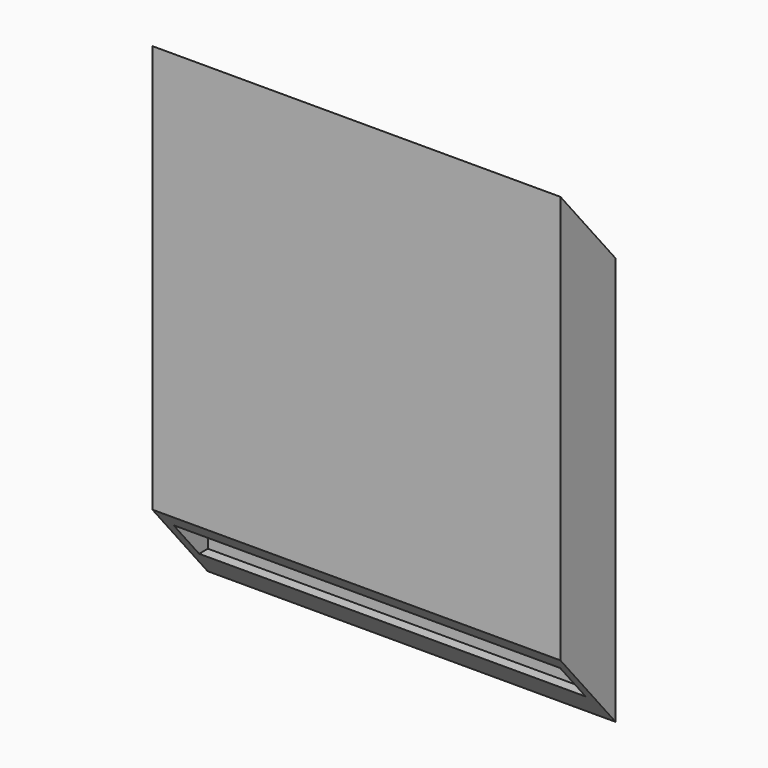
from build123d import *

# Parameters (mm, degrees)
F1_DEPTH = 24.13
F2_W     = 12.7
F2_H     = 1.27
F3_DEPTH = 45.72
F4_DEPTH = 54.61


with BuildPart() as f1:
    # F0 (on Right) → F1 (new body, symmetric)
    with BuildSketch(Plane.YZ):
        Polygon((-16.67125, -9.728764), (-24.834652, 0), (-24.834652, -48.26), (-16.67125, -57.988764), align=None)
    extrude(amount=F1_DEPTH, both=True)

    # F2 (on Top) → F3 (cut)
    with BuildSketch(Plane.XY):
        with Locations((0, -17.577951)):
            Rectangle(F2_W, F2_H)
        with Locations((0, -23.927951)):
            Rectangle(F2_W, F2_H)
    extrude(amount=-F3_DEPTH, mode=Mode.SUBTRACT)

    # F2 (on Top) → F4 (cut)
    with BuildSketch(Plane.XY):
        Polygon((22.86, -23.292951), (22.86, -18.212951), (6.35, -18.212951), (-6.35, -18.212951), (-22.86, -18.212951), (-22.86, -23.292951), (-6.35, -23.292951), (6.35, -23.292951), align=None)
    extrude(amount=-F4_DEPTH, mode=Mode.SUBTRACT)


solid = f1.part
